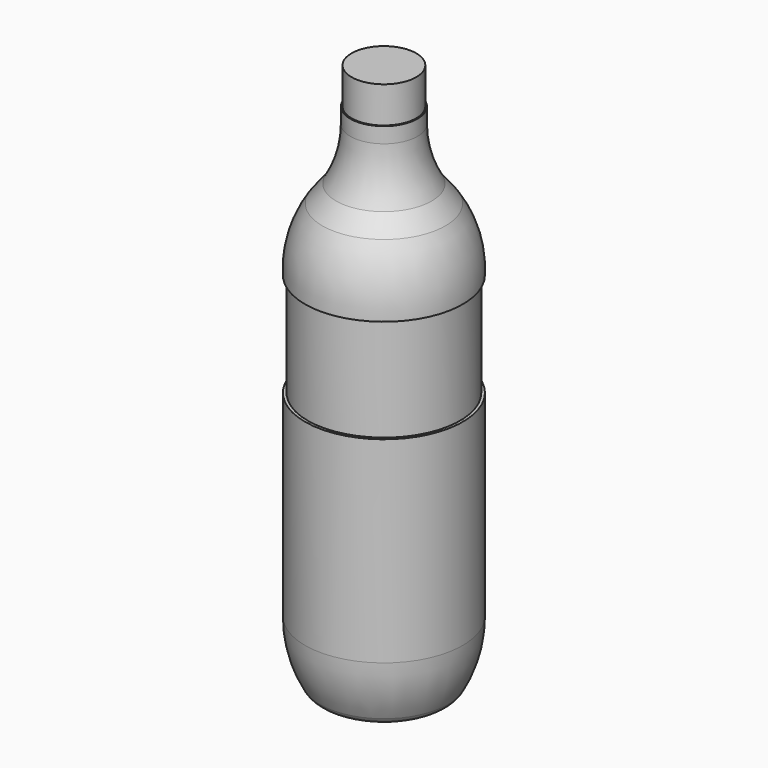
from build123d import *


with BuildPart() as f1:
    # F0 (on Front) → F1 (revolve)
    with BuildSketch(Plane.XZ):
        with BuildLine():
            Line((-182.708428, 75.852196), (-182.708428, 5282.852196))
            Line((-182.708428, 5282.852196), (-500.208428, 5282.852196))
            Line((-500.208428, 5282.852196), (-500.208428, 4927.252196))
            Line((-500.208428, 4927.252196), (-512.908428, 4927.252196))
            Line((-512.908428, 4927.252196), (-512.908428, 4774.852196))
            ThreePointArc((-512.908428, 4774.852196), (-548.356556, 4508.818316), (-652.227375, 4261.348222))
            ThreePointArc((-652.227375, 4261.348222), (-720.35614, 4176.689545), (-786.658468, 4090.592963))
            ThreePointArc((-786.658468, 4090.592963), (-922.672726, 3793.594229), (-957.408428, 3468.784196))
            Line((-957.408428, 3468.784196), (-929.468428, 3468.784196))
            Line((-929.468428, 3468.784196), (-929.468428, 2452.784196))
            Line((-929.468428, 2452.784196), (-957.408428, 2452.784196))
            Line((-957.408428, 2452.784196), (-957.408428, 520.352196))
            ThreePointArc((-957.408428, 520.352196), (-920.61215, 232.667775), (-812.59246, -36.493958))
            ThreePointArc((-812.59246, -36.493958), (-706.146617, -112.300411), (-580.109089, -77.776837))
            ThreePointArc((-580.109089, -77.776837), (-405.557679, 28.921214), (-206.138832, 74.580743))
            Line((-206.138832, 74.580743), (-182.708428, 75.852196))
        make_face()
    revolve(axis=Axis((-182.708428, 0, 2679.352196), (0, 0, 1)))


solid = f1.part
